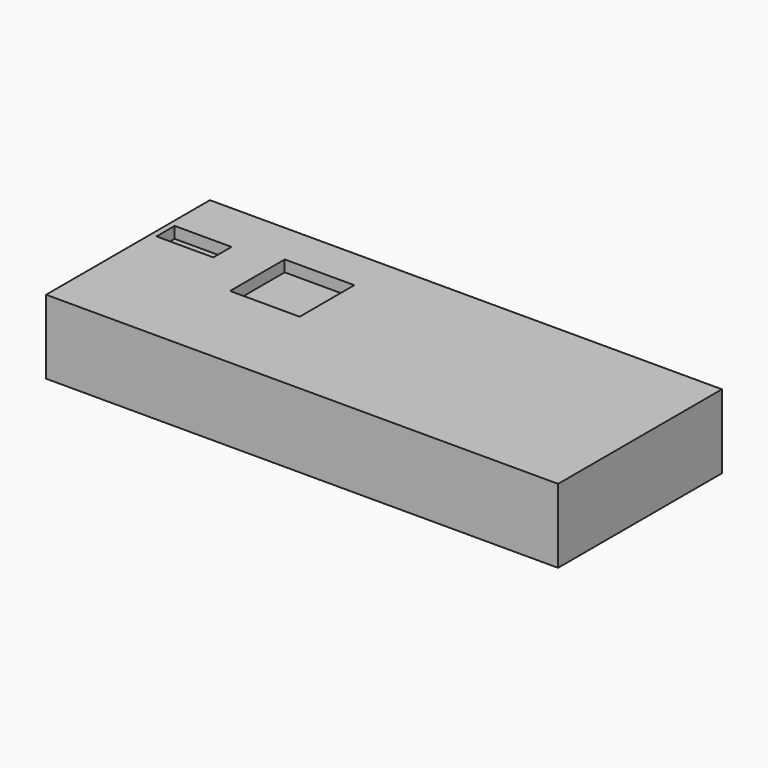
from build123d import *

# Parameters (mm, degrees)
F0_W     = 114.3
F0_H     = 45.72
F1_DEPTH = 16.51
F2_W     = 12.7
F2_H     = 5.08
F2_W_2   = 15.541512
F2_H_2   = 15.253705
F3_DEPTH = 2.54


with BuildPart() as f1:
    # F0 (on Top) → F1 (new body)
    with BuildSketch(Plane.XY):
        with Locations((29.943849, -5.324407)):
            Rectangle(F0_W, F0_H)
    extrude(amount=F1_DEPTH)

    # F2 (on face) → F3 (cut)
    with BuildSketch(Plane.XY.offset(16.51)):
        with Locations((-19.586151, 3.565593)):
            Rectangle(F2_W, F2_H)
        with Locations((4.727408, 0.575611)):
            Rectangle(F2_W_2, F2_H_2)
    extrude(amount=-F3_DEPTH, mode=Mode.SUBTRACT)


solid = f1.part
